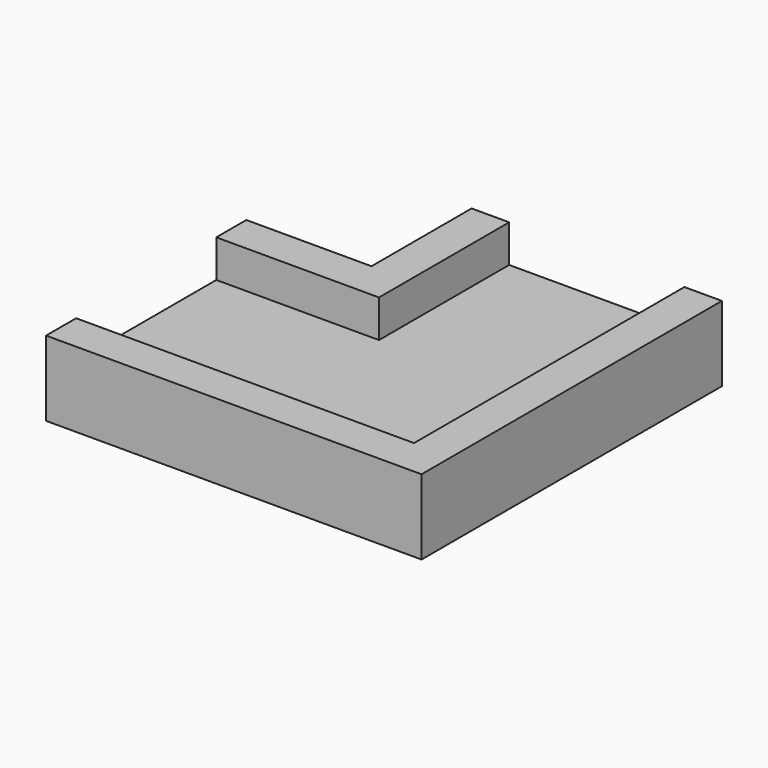
from build123d import *

# Parameters (mm, degrees)
PAD_DEPTH    = 6
POCKET_DEPTH = 3


with BuildPart() as part:
    # Sketch → Pad (new body)
    with BuildSketch(Plane.XY):
        Polygon((0, 30), (0, 0), (-30, 0), (-30, 20), (-20, 20), (-20, 30), align=None)
    extrude(amount=PAD_DEPTH)

    # Sketch001 (on Face8 of Pad) → Pocket (cut)
    with BuildSketch(Plane.XY.offset(6)):
        Polygon((-17, 30), (-3, 30), (-3, 3), (-30, 3), (-30, 17), (-17, 17), align=None)
    extrude(amount=-POCKET_DEPTH, mode=Mode.SUBTRACT)


solid = part.part
